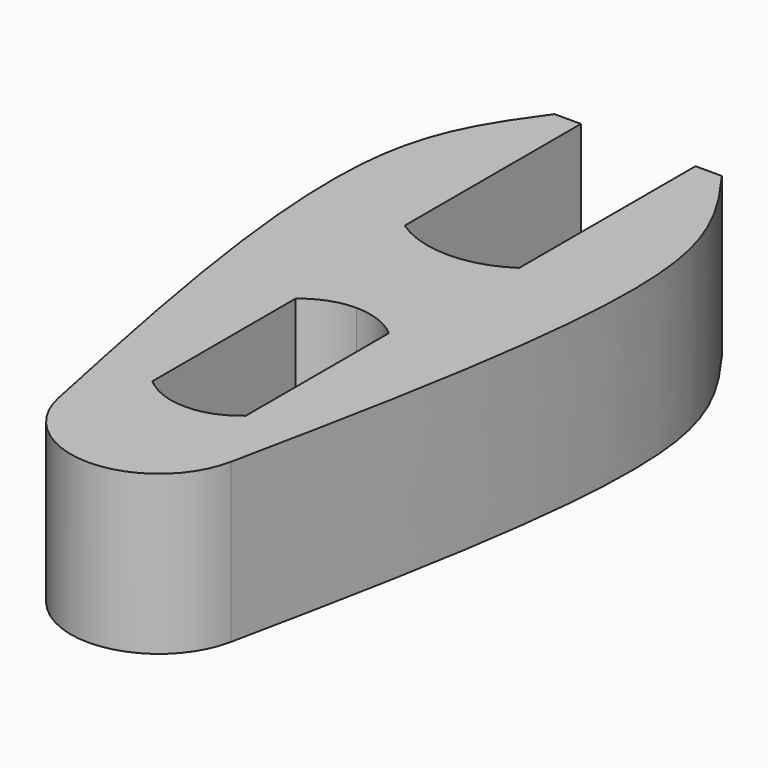
from build123d import *

# Parameters (mm, degrees)
F1_DEPTH = 18
F3_DEPTH = 10


with BuildPart() as f1:
    # F0 (on Top) → F1 (new body)
    with BuildSketch(Plane.XY):
        with BuildLine():
            add(Edge.make_bspline(
                [(9.5007545576, 39), (12.4635481183, 34.8866982316), (20.8197259912, 23.2484041941), (14.2138642453, -9.70977485), (9.7924165598, -31.0301836975)],
                knots=[0, 0, 0, 0, 0.3533498834, 1, 1, 1, 1], degree=3))
            Line((9.5007545576, 39), (6.5015091152, 39))
            Line((6.5015091152, 39), (6.5015091152, 14))
            ThreePointArc((6.5015091152, 14), (3.4015161475, 12.5111942523), (0.0007545576, 12))
            ThreePointArc((0.0007545576, 12), (-3.4000070322, 12.5111942523), (-6.5, 14))
            Line((-6.5, 14), (-6.5, 39))
            Line((-6.5, 39), (-9.4992454424, 39))
            add(Edge.make_bspline(
                [(-9.4992454424, 39), (-12.4620390031, 34.8866982316), (-20.818216876, 23.2484041941), (-14.2123551301, -9.70977485), (-9.7909074446, -31.0301836975)],
                knots=[0, 0, 0, 0, 0.3533498834, 1, 1, 1, 1], degree=3))
            ThreePointArc((-9.7909074446, -31.0301836975), (0.0007545576, -38.9995790498), (9.7924165598, -31.0301836975))
        make_face()
    extrude(amount=F1_DEPTH)

    # F2 (on face) → F3 (cut)
    with BuildSketch(Plane.XY.offset(18)):
        with BuildLine():
            ThreePointArc((0.0007545576, -1), (-2.83164725, -1.5166352097), (-5.2992454424, -3))
            Line((-5.2992454424, -3), (-5.2992454424, -23.3))
            ThreePointArc((-5.2992454424, -23.3), (-2.8320002359, -24.7832316067), (0, -25.3))
            ThreePointArc((0, -25.3), (0.0007545576, -25.3000000355), (0.0015091152, -25.3))
            ThreePointArc((0.0015091152, -25.3), (2.8335093511, -24.7832316067), (5.3007545576, -23.3))
            Line((5.3007545576, -23.3), (5.3007545576, -3))
            ThreePointArc((5.3007545576, -3), (2.8331563653, -1.5166352097), (0.0007545576, -1))
        make_face()
    extrude(amount=-F3_DEPTH, mode=Mode.SUBTRACT)


solid = f1.part
